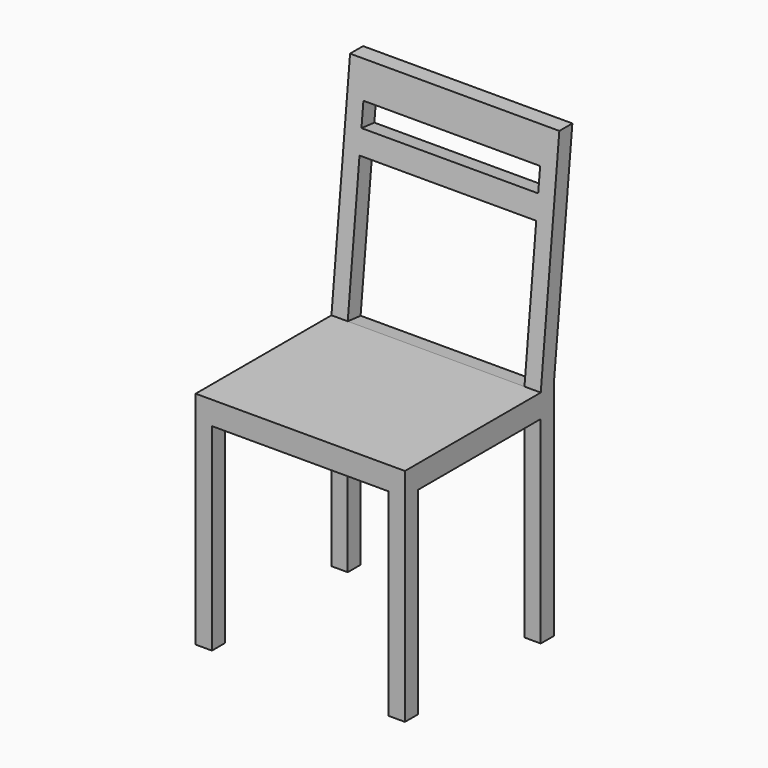
from build123d import *

# Parameters (mm, degrees)
F0_W     = 450
F0_H     = 450
F1_DEPTH = 950
F2_W     = 330
F2_H     = 425
F2_W_2   = 50
F2_H_2   = 50
F3_DEPTH = 450.001
F4_W     = 380
F4_H     = 425
F5_DEPTH = 450.001
F6_W     = 380
F6_H     = 302.6243293636
F6_H_2   = 50
F7_DEPTH = 134.2592361444


with BuildPart() as f1:
    # F0 (on Top) → F1 (new body)
    with BuildSketch(Plane.XY):
        Rectangle(F0_W, F0_H)
    extrude(amount=F1_DEPTH)

    # F2 (on face) → F3 (cut, through all)
    with BuildSketch(Plane.YZ.offset(225)):
        Polygon((-225, 475), (140, 475), (190, 950), (-225, 950), align=None)
        with Locations((-25, 212.5)):
            Rectangle(F2_W, F2_H)
        with Locations((200, 212.5)):
            Rectangle(F2_W_2, F2_H)
        with Locations((200, 450)):
            Rectangle(F2_W_2, F2_H_2)
        Polygon((175, 475), (225, 475), (225, 950), align=None)
    extrude(amount=-F3_DEPTH, mode=Mode.SUBTRACT)

    # F4 (on face) → F5 (cut, through all)
    with BuildSketch(Plane.XZ.offset(225)):
        with Locations((0, 212.5)):
            Rectangle(F4_W, F4_H)
    extrude(amount=-F5_DEPTH, mode=Mode.SUBTRACT)

    # F6 (on face) → F7 (cut, through all)
    with BuildSketch(Plane(origin=(0, 89.0136986301, -9.3698630137), x_dir=(1, 0, 0), z_dir=(0, -0.9945054529, 0.1046847845))):
        with Locations((0, 638.358124652)):
            Rectangle(F6_W, F6_H)
        with Locations((0, 864.6702893338)):
            Rectangle(F6_W, F6_H_2)
    extrude(amount=-F7_DEPTH, mode=Mode.SUBTRACT)


solid = f1.part
